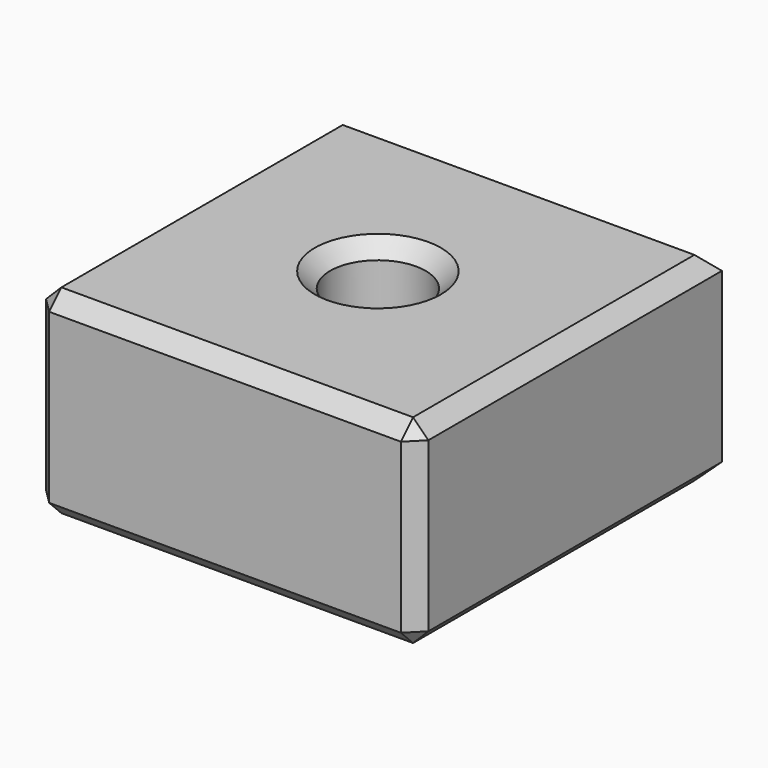
from build123d import *

# Parameters (mm, degrees)
CYLINDER018_R      = 1.25
CYLINDER018_DEPTH  = 10
BOX009_W           = 10
BOX009_H           = 10
BOX009_DEPTH       = 5.2
CHAMFER005009_SIZE = 0.4
CHAMFER005010_SIZE = 0.4


with BuildPart() as cylinder018:
    # Cylinder018 → Cylinder018 (new body)
    with BuildSketch(Plane.XY):
        Circle(CYLINDER018_R)
    extrude(amount=CYLINDER018_DEPTH)


with BuildPart() as self_tapping_nut:
    # Box009 → Box009 (new body)
    with BuildSketch(Plane(origin=(-5, -5, 0), x_dir=(1, 0, 0), z_dir=(0, 0, 1))):
        with Locations((5, 5)):
            Rectangle(BOX009_W, BOX009_H)
    extrude(amount=BOX009_DEPTH)

    # Chamfer005009
    chamfer005009_edges = [self_tapping_nut.edges().sort_by_distance(p)[0] for p in [
        (-5, -5, 2.6),
        (-5, 0, 5.2),
        (-5, 5, 2.6),
        (-5, 0, 0),
        (5, -5, 2.6),
        (5, 0, 5.2),
        (5, 0, 0),
        (0, -5, 0),
        (0, -5, 5.2),
        (0, 5, 0),
        (0, 5, 5.2),
    ]]
    chamfer(chamfer005009_edges, length=CHAMFER005009_SIZE)

    # Cut007: cut Cylinder018
    add(cylinder018.part, mode=Mode.SUBTRACT)

    # Chamfer005010
    chamfer005010_edges = [self_tapping_nut.edges().sort_by_distance(p)[0] for p in [
        (-1.25, 0, 0),
        (-1.25, 0, 5.2),
    ]]
    chamfer(chamfer005010_edges, length=CHAMFER005010_SIZE)


with BuildPart() as self_tapping_nut_1:
    # Chamfer005010 placement: moved
    add(self_tapping_nut.part.moved(Location((-34, 58, 0))))


solid = self_tapping_nut_1.part
